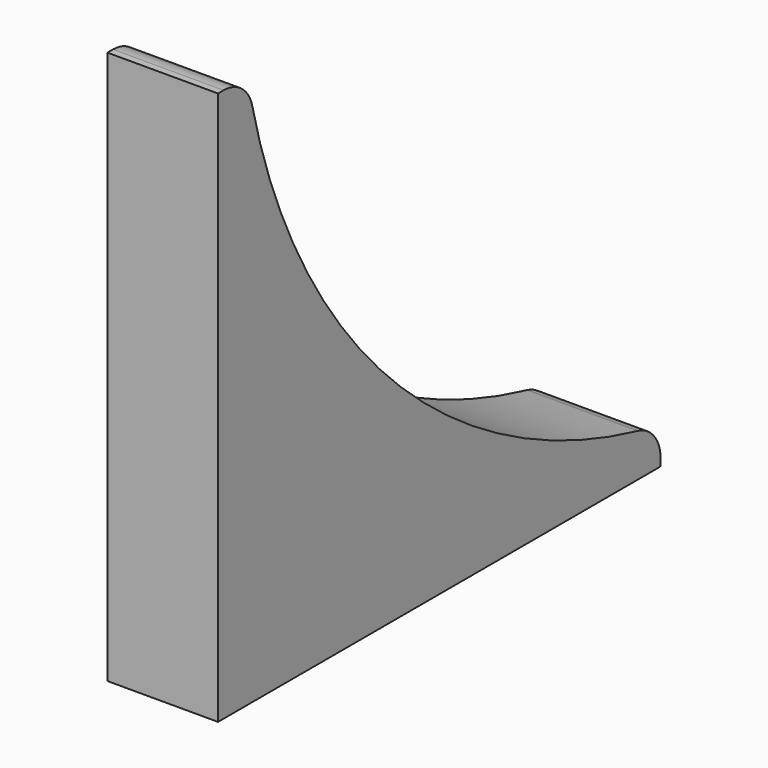
from build123d import *

# Parameters (mm, degrees)
PAD012_DEPTH            = 6
FILLET002_R             = 2
FILLET003_R             = 2
BODY011_PLACEMENT_ANGLE = 180


with BuildPart() as part:
    # Sketch025 → Pad012 (new body)
    with BuildSketch(Plane.YZ):
        with BuildLine():
            Line((6.011752, 0), (36.011752, 0))
            Line((36.011752, 0), (36.011752, -2))
            ThreePointArc((36.011752, -2), (17.671346, -11.659594), (8.011752, -30))
            Line((8.011752, -30), (6.011752, -30))
            Line((6.011752, -30), (6.011752, 0))
        make_face()
    extrude(amount=PAD012_DEPTH)

    # Fillet002
    fillet002_edges = [part.edges().sort_by_distance(p)[0] for p in [
        (3, 36.011752, -2),
    ]]
    fillet(fillet002_edges, radius=FILLET002_R)

    # Fillet003
    fillet003_edges = [part.edges().sort_by_distance(p)[0] for p in [
        (3, 8.011752, -30),
    ]]
    fillet(fillet003_edges, radius=FILLET003_R)


with BuildPart() as part_1:
    # Body011 placement: moved
    add(part.part.moved(Location((2, 0, 8))).rotate(Axis((2, 0, 8), (0, 1, 0)), BODY011_PLACEMENT_ANGLE))


solid = part_1.part
